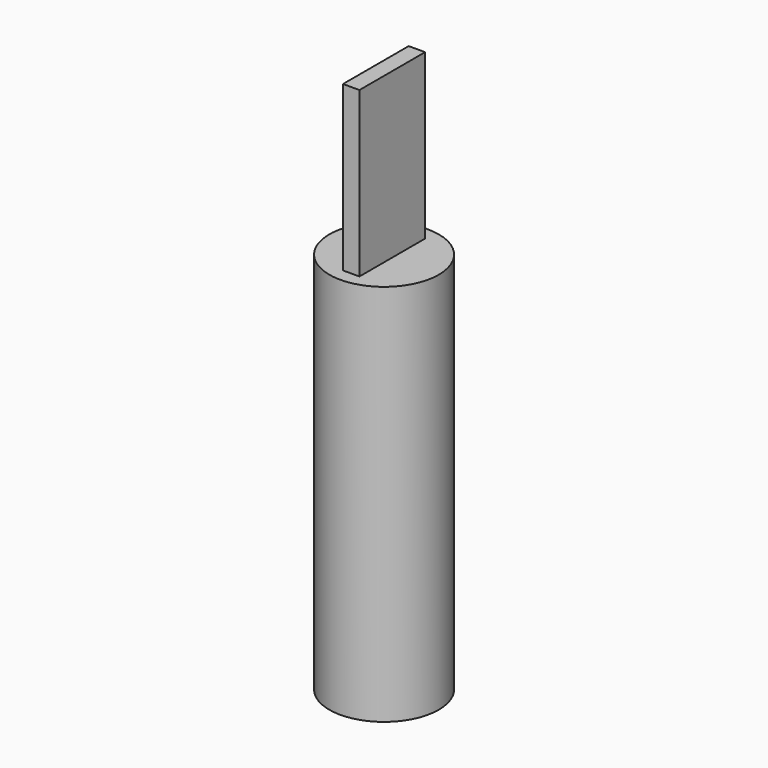
from build123d import *

# Parameters (mm, degrees)
F2_W     = 3
F2_H     = 15
F0_DEPTH = 100
F2_R     = 10
F1_DEPTH = 70


with BuildPart() as f0:
    # F2 (on Top) → F0 (new body)
    with BuildSketch(Plane.XY):
        Rectangle(F2_W, F2_H)
    extrude(amount=F0_DEPTH)

    # F2 (on Top) → F1 (join)
    with BuildSketch(Plane.XY):
        Circle(F2_R)
        Rectangle(F2_W, F2_H, mode=Mode.SUBTRACT)
    extrude(amount=F1_DEPTH)


solid = f0.part
